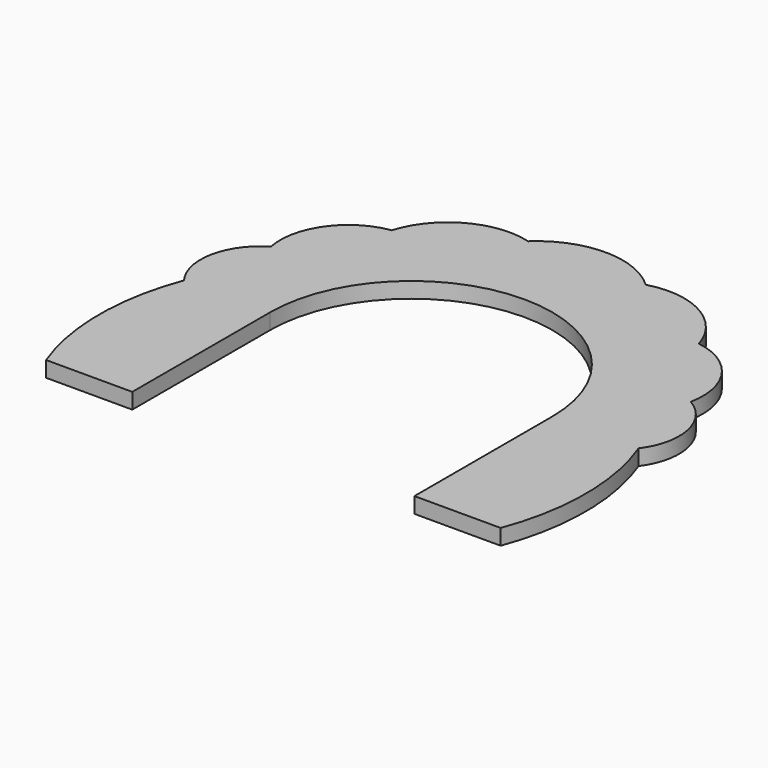
from build123d import *

# Parameters (mm, degrees)
F2_DEPTH = 10


with BuildPart() as f2:
    # F1 (on Top) → F2 (new body)
    with BuildSketch(Plane.XY):
        with BuildLine():
            ThreePointArc((-105, 110), (0, 215), (105, 110))
            Line((105, 110), (105, 0))
            Line((105, 0), (145, 0))
            Line((145, 0), (145, 110))
            ThreePointArc((145, 110), (142.2138656585, 138.2880966923), (133.9625322141, 165.4890976929))
            ThreePointArc((133.9625322141, 165.4890976929), (118.7770464219, 193.1685832709), (97.9605801043, 216.9052138375))
            ThreePointArc((97.9605801043, 216.9052138375), (69.7433714933, 237.1253795776), (37.5287615399, 250.0592448119))
            ThreePointArc((37.5287615399, 250.0592448119), (0, 255), (-37.5287615399, 250.0592448119))
            ThreePointArc((-37.5287615399, 250.0592448119), (-69.7433714933, 237.1253795776), (-97.9605801043, 216.9052138375))
            ThreePointArc((-97.9605801043, 216.9052138375), (-118.7770464219, 193.1685832709), (-133.9625322141, 165.4890976929))
            ThreePointArc((-133.9625322141, 165.4890976929), (-142.2138656585, 138.2880966923), (-145, 110))
            Line((-145, 110), (-145, 0))
            Line((-145, 0), (-105, 0))
            Line((-105, 0), (-105, 110))
        make_face()
        with BuildLine():
            ThreePointArc((-145, 110), (-155.0496837882, 55), (-145, 0))
            Line((-145, 0), (-145, 110))
        make_face()
        with BuildLine():
            ThreePointArc((-133.9625322141, 165.4890976929), (-151.8883856552, 140.2124783682), (-145, 110))
            ThreePointArc((-145, 110), (-142.2138656585, 138.2880966923), (-133.9625322141, 165.4890976929))
        make_face()
        with BuildLine():
            ThreePointArc((-97.9605801043, 216.9052138375), (-126.948851738, 198.890542954), (-133.9625322141, 165.4890976929))
            ThreePointArc((-133.9625322141, 165.4890976929), (-118.7770464219, 193.1685832709), (-97.9605801043, 216.9052138375))
        make_face()
        with BuildLine():
            ThreePointArc((-37.5287615399, 250.0592448119), (-74.4950323823, 245.7865136926), (-97.9605801043, 216.9052138375))
            ThreePointArc((-97.9605801043, 216.9052138375), (-69.7433714933, 237.1253795776), (-37.5287615399, 250.0592448119))
        make_face()
        with BuildLine():
            ThreePointArc((-37.5287615399, 250.0592448119), (0, 255), (37.5287615399, 250.0592448119))
            ThreePointArc((37.5287615399, 250.0592448119), (0, 264.8969025948), (-37.5287615399, 250.0592448119))
        make_face()
        with BuildLine():
            ThreePointArc((37.5287615399, 250.0592448119), (69.7433714933, 237.1253795776), (97.9605801043, 216.9052138375))
            ThreePointArc((97.9605801043, 216.9052138375), (74.4950323823, 245.7865136926), (37.5287615399, 250.0592448119))
        make_face()
        with BuildLine():
            ThreePointArc((97.9605801043, 216.9052138375), (118.7770464219, 193.1685832709), (133.9625322141, 165.4890976929))
            ThreePointArc((133.9625322141, 165.4890976929), (126.948851738, 198.890542954), (97.9605801043, 216.9052138375))
        make_face()
        with BuildLine():
            ThreePointArc((133.9625322141, 165.4890976929), (142.2138656585, 138.2880966923), (145, 110))
            ThreePointArc((145, 110), (151.8883856552, 140.2124783682), (133.9625322141, 165.4890976929))
        make_face()
        with BuildLine():
            Line((145, 110), (145, 0))
            ThreePointArc((145, 0), (155.0496837882, 55), (145, 110))
        make_face()
        with BuildLine():
            Line((105, 0), (105, 110))
            ThreePointArc((105, 110), (0, 215), (-105, 110))
            Line((-105, 110), (-105, 0))
            Line((-105, 0), (-90, 0))
            Line((-90, 0), (-90, 110))
            ThreePointArc((-90, 110), (0, 200), (90, 110))
            Line((90, 110), (90, 2.92e-08))
            Line((90, 0), (105, 0))
        make_face()
    extrude(amount=F2_DEPTH)


solid = f2.part
